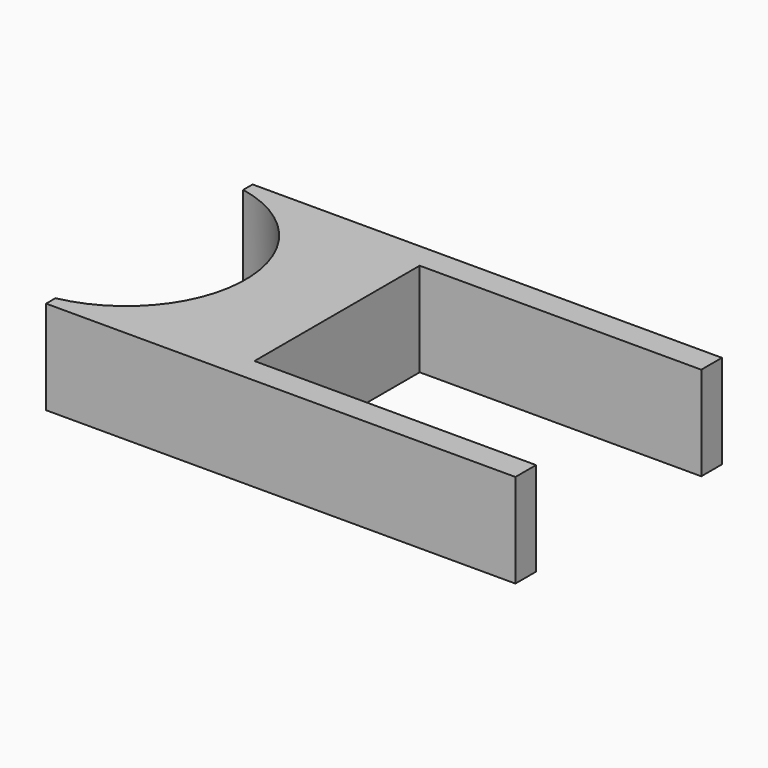
from build123d import *

# Parameters (mm, degrees)
F1_DEPTH = 25.4


with BuildPart() as f1:
    # F0 (on Top) → F1 (new body)
    with BuildSketch(Plane.XY):
        with BuildLine():
            Line((64.586578, 61.110395), (-62.413422, 61.110395))
            Line((-62.413422, 61.110395), (-62.413422, 57.935395))
            ThreePointArc((-62.413422, 57.935395), (-36.358085, 26.185395), (-62.413422, -5.564605))
            Line((-62.413422, -5.564605), (-62.413422, -8.739605))
            Line((-62.413422, -8.739605), (64.586578, -8.739605))
            Line((64.586578, -8.739605), (64.586578, -1.754605))
            Line((64.586578, -1.754605), (-11.613422, -1.754605))
            Line((-11.613422, -1.754605), (-11.613422, 54.125395))
            Line((-11.613422, 54.125395), (64.586578, 54.125395))
            Line((64.586578, 54.125395), (64.586578, 61.110395))
        make_face()
    extrude(amount=F1_DEPTH)


solid = f1.part
